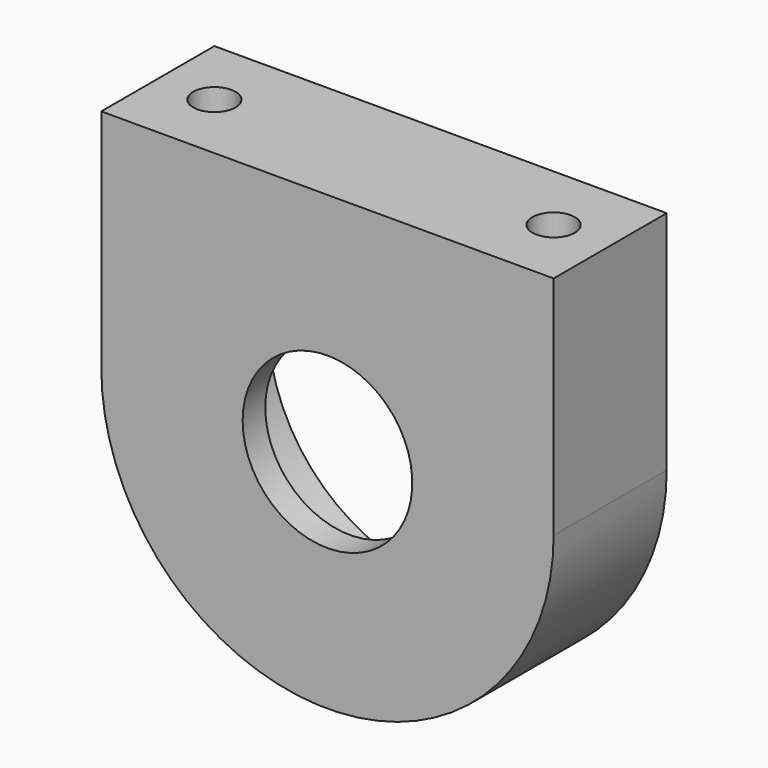
from build123d import *

# Parameters (mm, degrees)
F1_DEPTH = 10
F2_R     = 12.2
F3_DEPTH = 8
F4_R     = 6
F5_DEPTH = 25
F6_R     = 1.5
F7_DEPTH = 8


with BuildPart() as f1:
    # F0 (on Front) → F1 (new body)
    with BuildSketch(Plane.XZ):
        with BuildLine():
            Line((16, 0), (-16, 0))
            ThreePointArc((-16, 0), (0, -16), (16, 0))
        make_face()
        with BuildLine():
            Line((-16, 16), (-16, 0))
            ThreePointArc((-16, 0), (-11.3137085183, 11.3137084797), (-5.46e-08, 16))
            Line((-5.46e-08, 16), (-16, 16))
        make_face()
        with BuildLine():
            ThreePointArc((-5.46e-08, 16), (-11.3137085183, 11.3137084797), (-16, 0))
            Line((-16, 0), (16, 0))
            ThreePointArc((16, 0), (11.3137084797, 11.3137085183), (-5.46e-08, 16))
        make_face()
        with BuildLine():
            ThreePointArc((-5.46e-08, 16), (11.3137084797, 11.3137085183), (16, 0))
            Line((16, 0), (16, 16))
            Line((16, 16), (-5.46e-08, 16))
        make_face()
    extrude(amount=F1_DEPTH)

    # F2 (on face) → F3 (cut)
    with BuildSketch(Plane(origin=(0, 0, 0), x_dir=(-1, 0, 0), z_dir=(0, 1, 0))):
        Circle(F2_R)
    extrude(amount=-F3_DEPTH, mode=Mode.SUBTRACT)

    # F4 (on face) → F5 (cut)
    with BuildSketch(Plane(origin=(0, -8, 0), x_dir=(-1, 0, 0), z_dir=(0, 1, 0))):
        Circle(F4_R)
    extrude(amount=-F5_DEPTH, mode=Mode.SUBTRACT)

    # F6 (on face) → F7 (cut)
    with BuildSketch(Plane.XY.offset(16)):
        with Locations((-12, -5)):
            Circle(F6_R)
        with Locations((12, -5)):
            Circle(F6_R)
    extrude(amount=-F7_DEPTH, mode=Mode.SUBTRACT)


solid = f1.part
